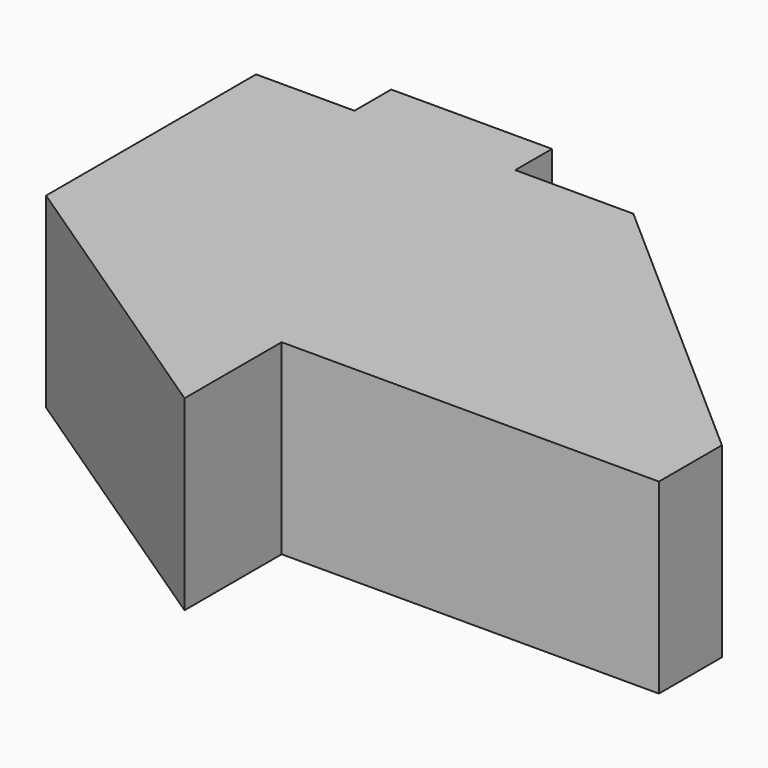
from build123d import *

# Parameters (mm, degrees)
F1_DEPTH = 25


with BuildPart() as f1:
    # F0 (on Top) → F1 (new body)
    with BuildSketch(Plane.XY):
        Polygon((-31.440735, 31.845357), (-44.620533, 31.845357), (-4.641801, -3.30078), (5.462711, -3.30078), (5.902037, 31.845357), (-9.913721, 31.845357), (-9.913721, 37.995931), (-31.440735, 37.995931), align=None)
        Polygon((-4.641801, -3.30078), (-44.620533, 31.845357), (-44.620533, -3.30078), align=None)
        Polygon((5.462711, -3.30078), (-4.641801, -3.30078), (-4.641801, -13.844621), (45.880768, -13.844621), (45.880768, -3.30078), (5.902037, 31.845357), align=None)
        Polygon((-4.641801, -13.844621), (-4.641801, -3.30078), (-44.620533, -3.30078), (-4.641801, -30.099709), align=None)
    extrude(amount=F1_DEPTH)


solid = f1.part
